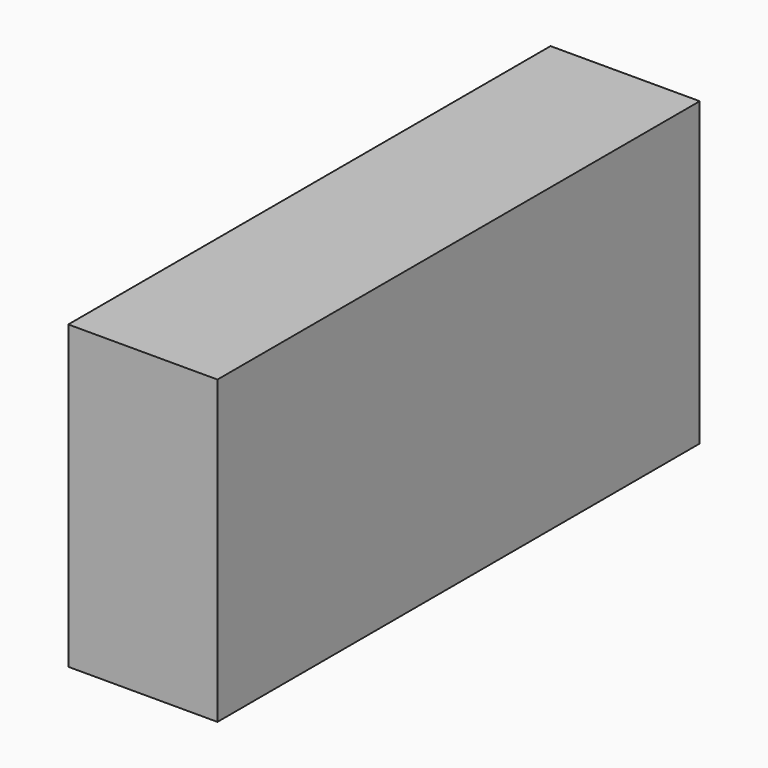
from build123d import *

# Parameters (mm, degrees)
SKETCH_W     = 9.9
SKETCH_H     = 40
PAD_DEPTH    = 20
SKETCH001_R  = 1.325
POCKET_DEPTH = 18


with BuildPart() as part:
    # Sketch → Pad (new body)
    with BuildSketch(Plane.XY):
        Rectangle(SKETCH_W, SKETCH_H)
    extrude(amount=PAD_DEPTH)

    # Sketch001 (on Face5 of Pad) → Pocket (cut)
    with BuildSketch(Plane(origin=(0, 0, 0), x_dir=(1, 0, 0), z_dir=(0, 0, -1))):
        with Locations((0, 10)):
            Circle(SKETCH001_R)
        with Locations((0, -10)):
            Circle(SKETCH001_R)
    extrude(amount=-POCKET_DEPTH, mode=Mode.SUBTRACT)


solid = part.part
